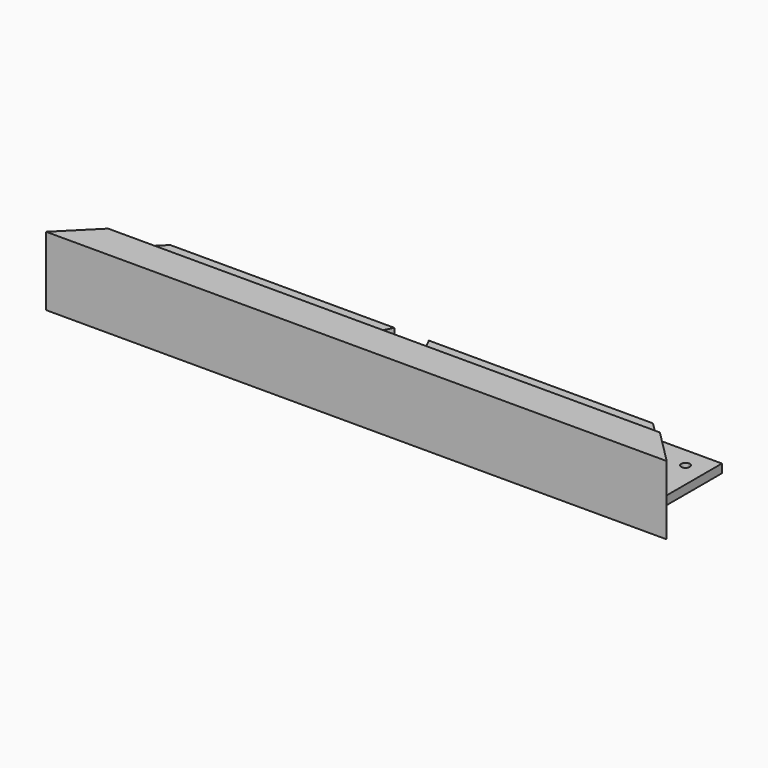
from build123d import *

# Parameters (mm, degrees)
F0_W      = 228.6
F0_H      = 25.4
F1_DEPTH  = 25.4
F3_DEPTH  = 11.1125
F5_DEPTH  = 11.1125
F6_DEPTH  = 6.35
F8_DEPTH  = 6.35
F11_DEPTH = 25.4


with BuildPart() as f1:
    # F0 (on Front) → F1 (new body)
    with BuildSketch(Plane.XZ):
        with Locations((-4.8591513187, 4.8340088824)):
            Rectangle(F0_W, F0_H)
    extrude(amount=F1_DEPTH)

    # F2 (on face) → F3 (cut)
    with BuildSketch(Plane.XY.offset(17.5340088824)):
        Polygon((-119.1591513187, 0), (-119.1591513187, -25.4), (-106.4591513187, -12.7), (-93.7591513187, 0), align=None)
        Polygon((96.7408486813, -12.7), (109.4408486813, -25.4), (109.4408486813, 0), (84.0408486813, 0), align=None)
    extrude(amount=-F3_DEPTH, mode=Mode.SUBTRACT)

    # F4 (on face) → F5 (cut)
    with BuildSketch(Plane(origin=(0, 0, -7.8659911176), x_dir=(1, 0, 0), z_dir=(0, 0, -1))):
        Polygon((-93.7591513187, 0), (-119.1591513187, 25.4), (-119.1591513187, 0), align=None)
        Polygon((109.4408486813, 0), (109.4408486813, 25.4), (84.0408486813, 0), align=None)
    extrude(amount=-F5_DEPTH, mode=Mode.SUBTRACT)

    # F2 (on face) → F6 (cut)
    with BuildSketch(Plane.XY.offset(17.5340088824)):
        Polygon((-93.7591513187, 0), (-106.4591513187, -12.7), (96.7408486813, -12.7), (84.0408486813, 0), align=None)
    extrude(amount=-F6_DEPTH, mode=Mode.SUBTRACT)

    # F7 (on face) → F8 (cut)
    with BuildSketch(Plane.XY.offset(11.1840088824)):
        Polygon((1.4908486813, 0), (-11.2091513187, 0), (-17.5591513187, -12.7), (7.8408486813, -12.7), align=None)
    extrude(amount=-F8_DEPTH, mode=Mode.SUBTRACT)

    # F9 (on face) + F10 (on face) → F11 (cut)
    with BuildSketch(Plane.XY.offset(6.4215088824)):
        with BuildLine():
            ThreePointArc((-110.5971315457, -8.562019773), (-110.2530048029, -8.0469977067), (-110.1321635608, -7.4394877579))
            ThreePointArc((-110.1321635608, -7.4394877579), (-110.5971315457, -6.3169557427), (-111.7196635608, -5.8519877579))
            Line((-111.7196635608, -5.8519877579), (-111.7196635608, -7.4394877579))
            Line((-111.7196635608, -7.4394877579), (-110.5971315457, -8.562019773))
        make_face()
        with BuildLine():
            Line((-111.7196635608, -7.4394877579), (-111.7196635608, -5.8519877579))
            ThreePointArc((-111.7196635608, -5.8519877579), (-112.8421955759, -6.3169557427), (-113.3071635608, -7.4394877579))
            Line((-113.3071635608, -7.4394877579), (-111.7196635608, -7.4394877579))
        make_face()
        with BuildLine():
            ThreePointArc((-113.3071635608, -7.4394877579), (-112.3271735097, -8.9061465157), (-110.5971315457, -8.562019773))
            Line((-110.5971315457, -8.562019773), (-111.7196635608, -7.4394877579))
            Line((-111.7196635608, -7.4394877579), (-113.3071635608, -7.4394877579))
        make_face()
    with BuildSketch(Plane.XY.offset(6.4215088824)):
        with BuildLine():
            Line((102.0013609235, -7.4394877579), (103.5888609235, -7.4394877579))
            ThreePointArc((103.5888609235, -7.4394877579), (103.1238929386, -6.3169557427), (102.0013609235, -5.8519877579))
            Line((102.0013609235, -5.8519877579), (102.0013609235, -7.4394877579))
        make_face()
        with BuildLine():
            Line((102.0013609235, -7.4394877579), (102.0013609235, -5.8519877579))
            ThreePointArc((102.0013609235, -5.8519877579), (100.5347021656, -6.831977809), (100.8788289083, -8.562019773))
            Line((100.8788289083, -8.562019773), (102.0013609235, -7.4394877579))
        make_face()
        with BuildLine():
            ThreePointArc((100.8788289083, -8.562019773), (102.6088708723, -8.9061465157), (103.5888609235, -7.4394877579))
            Line((103.5888609235, -7.4394877579), (102.0013609235, -7.4394877579))
            Line((102.0013609235, -7.4394877579), (100.8788289083, -8.562019773))
        make_face()
    extrude(amount=-F11_DEPTH, mode=Mode.SUBTRACT)


solid = f1.part
